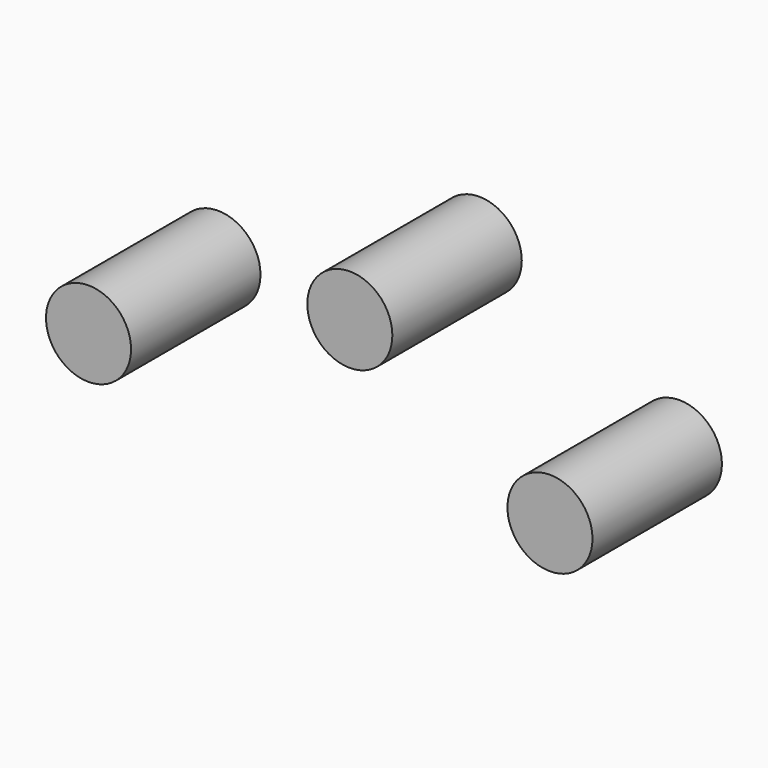
from build123d import *

# Parameters (mm, degrees)
F0_R     = 6.57056
F1_DEPTH = 25


with BuildPart() as f1:
    # F0 (on Front) → F1 (new body)
    with BuildSketch(Plane.XZ):
        with Locations((-27.275207, 19.758422)):
            Circle(F0_R)
        with Locations((13.10069, 34.791999)):
            Circle(F0_R)
        with Locations((44.026911, 17.181236)):
            Circle(F0_R)
    extrude(amount=F1_DEPTH)


solid = f1.part
